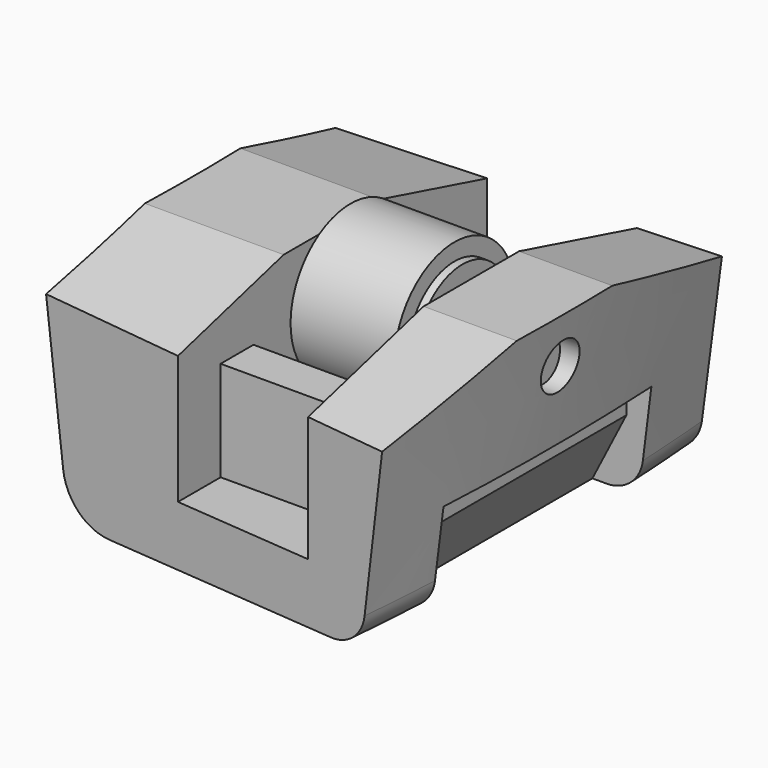
from build123d import *

# Parameters (mm, degrees)
CYLINDER002_R          = 1.25
CYLINDER002_DEPTH      = 6
CYLINDER001_R          = 3.75
CYLINDER001_DEPTH      = 5.2
CYLINDER_R             = 2.9
CYLINDER_DEPTH         = 6
CUT_PLACEMENT_ANGLE    = 90
CYLINDER005_R          = 1.1
CYLINDER005_DEPTH      = 16
BOX008_W               = 2
BOX008_H               = 13
BOX008_DEPTH           = 5
BOX008_PLACEMENT_ANGLE = 27
BOX007_W               = 7
BOX007_H               = 5
BOX007_DEPTH           = 11
BOX006_W               = 7
BOX006_H               = 5
BOX006_DEPTH           = 11
BOX005_W               = 7
BOX005_H               = 30
BOX005_DEPTH           = 9
BOX004_W               = 25
BOX004_H               = 30
BOX004_DEPTH           = 4
BOX004_PLACEMENT_ANGLE = 345
BOX003_W               = 25
BOX003_H               = 30
BOX003_DEPTH           = 4
BOX003_PLACEMENT_ANGLE = 15
BOX002_W               = 6
BOX002_H               = 13
BOX002_DEPTH           = 5
BOX001_W               = 6
BOX001_H               = 12
BOX001_DEPTH           = 5
CYLINDER004_R          = 1.2
CYLINDER004_DEPTH      = 20
BOX_W                  = 7
BOX_H                  = 10
BOX_DEPTH              = 3
CYLINDER003_R          = 5
CYLINDER003_DEPTH      = 7
REVOLVE_ANGLE          = 10


with BuildPart() as hole:
    # Cylinder002 → Cylinder002 (new body)
    with BuildSketch(Plane.XY.offset(-3)):
        Circle(CYLINDER002_R)
    extrude(amount=CYLINDER002_DEPTH)


with BuildPart() as rubber:
    # Cylinder001 → Cylinder001 (new body)
    with BuildSketch(Plane.XY.offset(-2.6)):
        Circle(CYLINDER001_R)
    extrude(amount=CYLINDER001_DEPTH)


with BuildPart() as roller001:
    # Cylinder → Cylinder (new body)
    with BuildSketch(Plane.XY.offset(-3)):
        Circle(CYLINDER_R)
    extrude(amount=CYLINDER_DEPTH)

    # Fusion: union rubber
    add(rubber.part)

    # Cut: cut Hole
    add(hole.part, mode=Mode.SUBTRACT)


with BuildPart() as roller001_1:
    # Cut placement: moved
    add(roller001.part.moved(Location((114, 0, 8.75))).rotate(Axis((114, 0, 8.75), (0, 1, 0)), CUT_PLACEMENT_ANGLE))


with BuildPart() as spindel:
    # Cylinder005 → Cylinder005 (new body)
    with BuildSketch(Plane(origin=(105, 0, 8.75), x_dir=(0, 0, -1), z_dir=(1, 0, 0))):
        Circle(CYLINDER005_R)
    extrude(amount=CYLINDER005_DEPTH)


with BuildPart() as box008:
    # Box008 → Box008 (new body)
    with BuildSketch(Plane.XY):
        with Locations((1, 6.5)):
            Rectangle(BOX008_W, BOX008_H)
    extrude(amount=BOX008_DEPTH)


with BuildPart() as box008_1:
    # Box008 placement: moved
    add(box008.part.moved(Location((118.3, -6.5, 0))).rotate(Axis((118.3, -6.5, 0), (0, 1, 0)), BOX008_PLACEMENT_ANGLE))


with BuildPart() as box007:
    # Box007 → Box007 (new body)
    with BuildSketch(Plane(origin=(110.5, -12, 3), x_dir=(1, 0, 0), z_dir=(0, 0, 1))):
        with Locations((3.5, 2.5)):
            Rectangle(BOX007_W, BOX007_H)
    extrude(amount=BOX007_DEPTH)


with BuildPart() as box006:
    # Box006 → Box006 (new body)
    with BuildSketch(Plane(origin=(110.5, 7, 3), x_dir=(1, 0, 0), z_dir=(0, 0, 1))):
        with Locations((3.5, 2.5)):
            Rectangle(BOX006_W, BOX006_H)
    extrude(amount=BOX006_DEPTH)


with BuildPart() as box005:
    # Box005 → Box005 (new body)
    with BuildSketch(Plane(origin=(110.5, -15, 8), x_dir=(1, 0, 0), z_dir=(0, 0, 1))):
        with Locations((3.5, 15)):
            Rectangle(BOX005_W, BOX005_H)
    extrude(amount=BOX005_DEPTH)


with BuildPart() as box004:
    # Box004 → Box004 (new body)
    with BuildSketch(Plane.XY):
        with Locations((12.5, 15)):
            Rectangle(BOX004_W, BOX004_H)
    extrude(amount=BOX004_DEPTH)


with BuildPart() as box004_1:
    # Box004 placement: moved
    add(box004.part.moved(Location((100, -15, 16))).rotate(Axis((100, -15, 16), (1, 0, 0)), BOX004_PLACEMENT_ANGLE))


with BuildPart() as box003:
    # Box003 → Box003 (new body)
    with BuildSketch(Plane.XY):
        with Locations((12.5, 15)):
            Rectangle(BOX003_W, BOX003_H)
    extrude(amount=BOX003_DEPTH)


with BuildPart() as box003_1:
    # Box003 placement: moved
    add(box003.part.moved(Location((100, -15, 8))).rotate(Axis((100, -15, 8), (1, 0, 0)), BOX003_PLACEMENT_ANGLE))


with BuildPart() as box002:
    # Box002 → Box002 (new body)
    with BuildSketch(Plane(origin=(120, -6.5, 0), x_dir=(1, 0, 0), z_dir=(0, 0, 1))):
        with Locations((3, 6.5)):
            Rectangle(BOX002_W, BOX002_H)
    extrude(amount=BOX002_DEPTH)


with BuildPart() as box001:
    # Box001 → Box001 (new body)
    with BuildSketch(Plane(origin=(102, -6, 0), x_dir=(1, 0, 0), z_dir=(0, 0, 1))):
        with Locations((3, 6)):
            Rectangle(BOX001_W, BOX001_H)
    extrude(amount=BOX001_DEPTH)


with BuildPart() as hole3:
    # Cylinder004 → Cylinder004 (new body)
    with BuildSketch(Plane(origin=(103, 0, 8.75), x_dir=(0, 0, -1), z_dir=(1, 0, 0))):
        Circle(CYLINDER004_R)
    extrude(amount=CYLINDER004_DEPTH)


with BuildPart() as box:
    # Box → Box (new body)
    with BuildSketch(Plane(origin=(110.5, -5, 8.75), x_dir=(1, 0, 0), z_dir=(0, 0, 1))):
        with Locations((3.5, 5)):
            Rectangle(BOX_W, BOX_H)
    extrude(amount=BOX_DEPTH)


with BuildPart() as hole2:
    # Cylinder003 → Cylinder003 (new body)
    with BuildSketch(Plane(origin=(110.5, 0, 8.75), x_dir=(0, 0, -1), z_dir=(1, 0, 0))):
        Circle(CYLINDER003_R)
    extrude(amount=CYLINDER003_DEPTH)


with BuildPart() as cut004:
    # Sketch → Revolve (revolve, symmetric)
    with BuildSketch(Plane.XZ) as revolve_sk:
        with BuildLine():
            Line((122.2, 11.2), (121, 1.6))
            ThreePointArc((119.187549, 0), (120.396368, 0.457227), (121, 1.6))
            Line((107.219574, 0), (119.187549, 0))
            ThreePointArc((104.724696, 2.202434), (105.555608, 0.629383), (107.219574, 0))
            Line((103.6, 11.2), (104.724696, 2.202434))
            Line((103.6, 11.2), (122.2, 11.2))
        make_face()
    revolve(axis=Axis((0, 0, 0), (0, 0, 1)), revolution_arc=REVOLVE_ANGLE / 2)
    revolve(revolve_sk.sketch, axis=Axis((0, 0, 0), (0, 0, -1)), revolution_arc=REVOLVE_ANGLE / 2)

    # Cut001: cut hole2
    add(hole2.part, mode=Mode.SUBTRACT)

    # Cut002: cut Box
    add(box.part, mode=Mode.SUBTRACT)

    # Cut003: cut HOLE3
    add(hole3.part, mode=Mode.SUBTRACT)

    # Cut004: cut Box001
    add(box001.part, mode=Mode.SUBTRACT)


with BuildPart() as cut006:
    # Cut006 base: copy of Cut004
    add(cut004.part)

    # Cut006: cut Box002
    add(box002.part, mode=Mode.SUBTRACT)


with BuildPart() as cut012:
    # Cut005 base: copy of Cut004
    add(cut004.part)

    # Cut005: cut Box002
    add(box002.part, mode=Mode.SUBTRACT)

    # Fusion001: union Cut006
    add(cut006.part)

    # Cut007: cut Box003
    add(box003_1.part, mode=Mode.SUBTRACT)

    # Cut008: cut Box004
    add(box004_1.part, mode=Mode.SUBTRACT)

    # Cut009: cut Box005
    add(box005.part, mode=Mode.SUBTRACT)

    # Cut010: cut Box006
    add(box006.part, mode=Mode.SUBTRACT)

    # Cut011: cut Box007
    add(box007.part, mode=Mode.SUBTRACT)

    # Cut012: cut Box008
    add(box008_1.part, mode=Mode.SUBTRACT)


solid = Compound([roller001_1.part, spindel.part, cut012.part])
